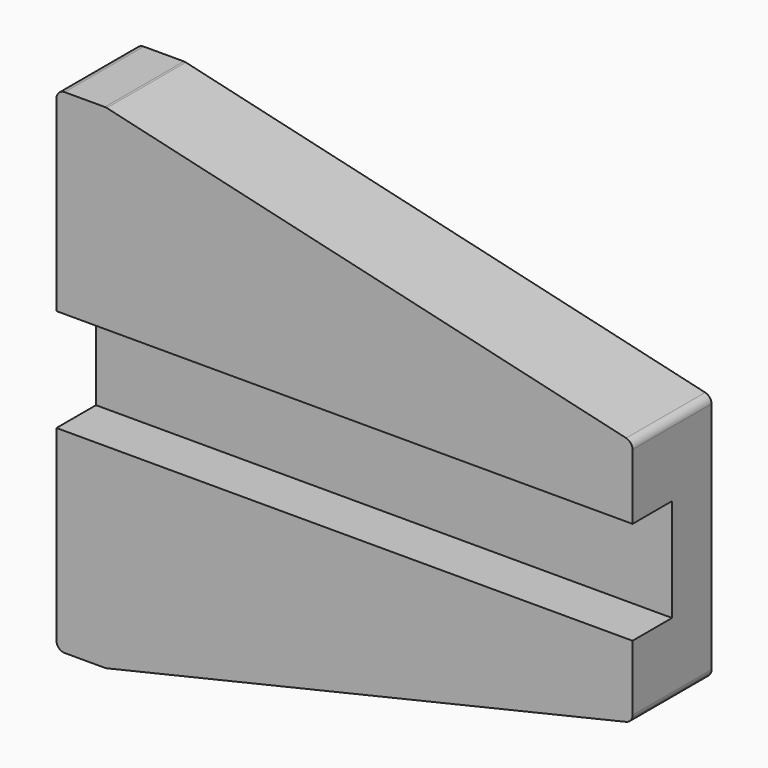
from build123d import *

# Parameters (mm, degrees)
F1_DEPTH = 12
F2_W     = 6
F2_H     = 12.5
F3_DEPTH = 70.001
F4_R     = 1


with BuildPart() as f1:
    # F0 (on Front) → F1 (new body)
    with BuildSketch(Plane.XZ):
        Polygon((6, 30), (0, 30), (0, -30), (6, -30), (70, -15), (70, 15), align=None)
    extrude(amount=F1_DEPTH)

    # F2 (on face) → F3 (cut, through all)
    with BuildSketch(Plane.YZ.offset(70)):
        with Locations((-9, 0)):
            Rectangle(F2_W, F2_H)
    extrude(amount=-F3_DEPTH, mode=Mode.SUBTRACT)

    # F4
    f4_edges = [f1.edges().sort_by_distance(p)[0] for p in [
        (70, -6, 15),
        (6, -6, 30),
        (0, -6, 30),
        (70, -6, -15),
        (6, -6, -30),
        (0, -6, -30),
    ]]
    fillet(f4_edges, radius=F4_R)


solid = f1.part
